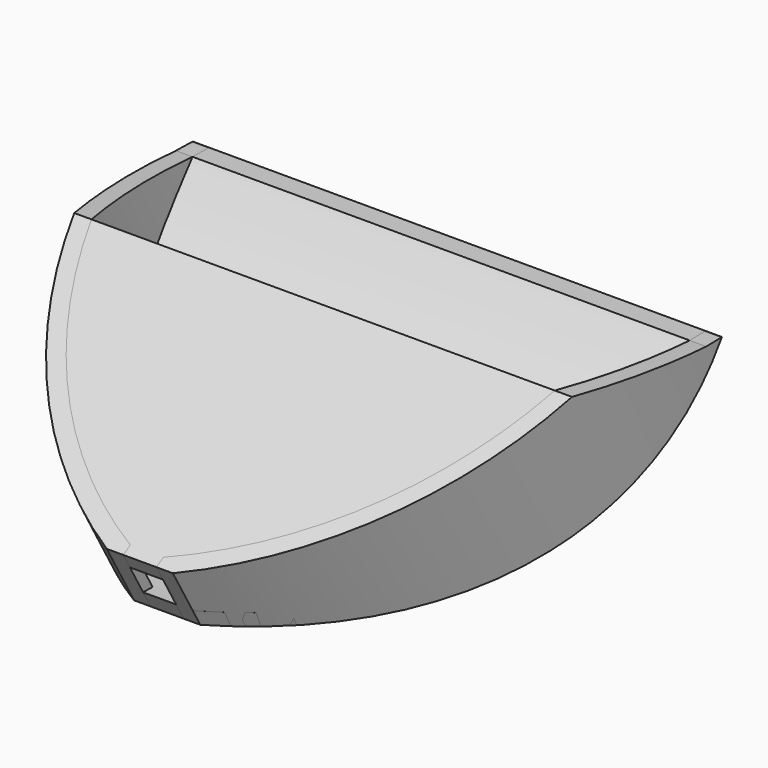
from build123d import *

# Parameters (mm, degrees)
F1_DEPTH      = 101.6
F1_DEPTH_BACK = 101.6
F3_DEPTH      = 62.992
F5_DEPTH      = 50.8
F6_W          = 218.0573865771
F6_H          = 142.2193944454
F7_DEPTH      = 109.22
F7_DEPTH_BACK = 114.3


with BuildPart() as f1:
    # F0 (on Right) → F1 (new body, two sides)
    with BuildSketch(Plane.YZ) as f1_sk:
        with BuildLine():
            Line((-47.2127604418, -40.8199376472), (-43.5914381401, -47.0922518644))
            ThreePointArc((-43.5914381401, -47.0922518644), (34.3986779906, -29.0247138413), (95.6622395582, 22.5084809787))
            Line((95.6622395582, 22.5084809787), (87.8752781813, 22.5084809787))
            ThreePointArc((87.8752781813, 22.5084809787), (27.8926619073, -25.2852185024), (-47.2127604418, -40.8199376472))
        make_face()
    extrude(amount=F1_DEPTH)
    extrude(f1_sk.sketch, amount=-F1_DEPTH_BACK)


with BuildPart() as f1b:
    # F0 (on Right) → F1, piece 2 (new body, two sides)
    with BuildSketch(Plane.YZ) as f1_2_sk:
        Polygon((-56.7377604418, -24.3221537051), (-53.5627604418, -29.8214150191), (34.4254205826, 20.9785849809), (31.2504205826, 26.4778462949), align=None)
    extrude(amount=F1_DEPTH)
    extrude(f1_2_sk.sketch, amount=-F1_DEPTH_BACK)


with BuildPart() as f3_tool:
    # F2 (on face) → F3 (new body)
    with BuildSketch(Plane(origin=(0, -3.6526386188, 6.3265556694), x_dir=(1, 0, 0), z_dir=(0, -0.5, 0.8660254038))):
        with BuildLine():
            Line((-101.6, 84.7203440245), (-101.6, 85.6125354767))
            ThreePointArc((-101.6, 85.6125354767), (-101.6006026704, 85.1664397506), (-101.6, 84.7203440245))
        make_face()
        with BuildLine():
            ThreePointArc((-12.7, -61.297418749), (-77.5203666659, -0.6906284654), (-101.6, 84.7203440245))
            Line((-101.6, 84.7203440245), (-101.6, -61.297418749))
            Line((-101.6, -61.297418749), (-12.7, -61.297418749))
        make_face()
        with BuildLine():
            Line((101.6, -61.297418749), (101.6, 84.7203440245))
            ThreePointArc((101.6, 84.7203440245), (77.5203666659, -0.6906284654), (12.7, -61.297418749))
            Line((12.7, -61.297418749), (101.6, -61.297418749))
        make_face()
        with BuildLine():
            ThreePointArc((101.6, 84.7203440245), (101.6006026704, 85.1664397506), (101.6, 85.6125354767))
            Line((101.6, 85.6125354767), (101.6, 84.7203440245))
        make_face()
    extrude(amount=-F3_DEPTH)


with BuildPart() as f1_1:
    add(f1.part)

    # F3: cut by f3_tool
    add(f3_tool.part, mode=Mode.SUBTRACT)


with BuildPart() as f1b_1:
    add(f1b.part)

    # F3: cut by f3_tool
    add(f3_tool.part, mode=Mode.SUBTRACT)


with BuildPart() as f5:
    # F4 (on face) → F5 (new body)
    with BuildSketch(Plane(origin=(0, -3.6526386188, 6.3265556694), x_dir=(1, 0, 0), z_dir=(0, -0.5, 0.8660254038))):
        with BuildLine():
            Line((-95.2443582139, 93.7031581998), (-101.6029715538, 93.7031581998))
            ThreePointArc((-101.6029715538, 93.7031581998), (-79.9329427522, 3.1362137084), (-12.7, -61.297418749))
            Line((-12.7, -61.297418749), (-6.35, -61.297418749))
            Line((-6.35, -61.297418749), (-6.35, -57.3844169627))
            ThreePointArc((-6.35, -57.3844169627), (-73.5424260517, 4.7769059957), (-95.2443582139, 93.7031581998))
        make_face()
    extrude(amount=-F5_DEPTH)


with BuildPart() as f5b:
    # F4 (on face) → F5, piece 2 (new body)
    with BuildSketch(Plane(origin=(0, -3.6526386188, 6.3265556694), x_dir=(1, 0, 0), z_dir=(0, -0.5, 0.8660254038))):
        with BuildLine():
            Line((6.35, -61.297418749), (12.7, -61.297418749))
            ThreePointArc((12.7, -61.297418749), (79.9329427522, 3.1362137084), (101.6029715538, 93.7031581998))
            Line((101.6029715538, 93.7031581998), (95.2443582139, 93.7031581998))
            ThreePointArc((95.2443582139, 93.7031581998), (73.5424260517, 4.7769059957), (6.35, -57.3844169627))
            Line((6.35, -57.3844169627), (6.35, -61.297418749))
        make_face()
    extrude(amount=-F5_DEPTH)


with BuildPart() as f7_tool:
    # F6 (on Right) → F7 (new body, two sides)
    with BuildSketch(Plane.YZ) as f7_sk:
        with Locations((17.5203569233, -1.9469410181)):
            Rectangle(F6_W, F6_H)
        with BuildLine():
            Line((-56.7377969396, -24.3221706548), (31.2503799796, 26.477959007))
            Line((31.2503799796, 26.477959007), (87.8742308381, 22.5086007267))
            Line((87.8742308381, 22.5086007267), (95.6624150276, 22.5086007267))
            ThreePointArc((95.6624150276, 22.5086007267), (34.3932667097, -29.0136506245), (-43.591439724, -47.0922701061))
            Line((-43.591439724, -47.0922701061), (-56.7377969396, -24.3221706548))
        make_face(mode=Mode.SUBTRACT)
    extrude(amount=-F7_DEPTH)
    extrude(f7_sk.sketch, amount=F7_DEPTH_BACK)


with BuildPart() as f1_2:
    add(f1_1.part)

    # F7: cut by f7_tool
    add(f7_tool.part, mode=Mode.SUBTRACT)


with BuildPart() as f5_1:
    add(f5.part)

    # F7: cut by f7_tool
    add(f7_tool.part, mode=Mode.SUBTRACT)


with BuildPart() as f5b_1:
    add(f5b.part)

    # F7: cut by f7_tool
    add(f7_tool.part, mode=Mode.SUBTRACT)


solid = Compound([f1b_1.part, f1_2.part, f5_1.part, f5b_1.part])
